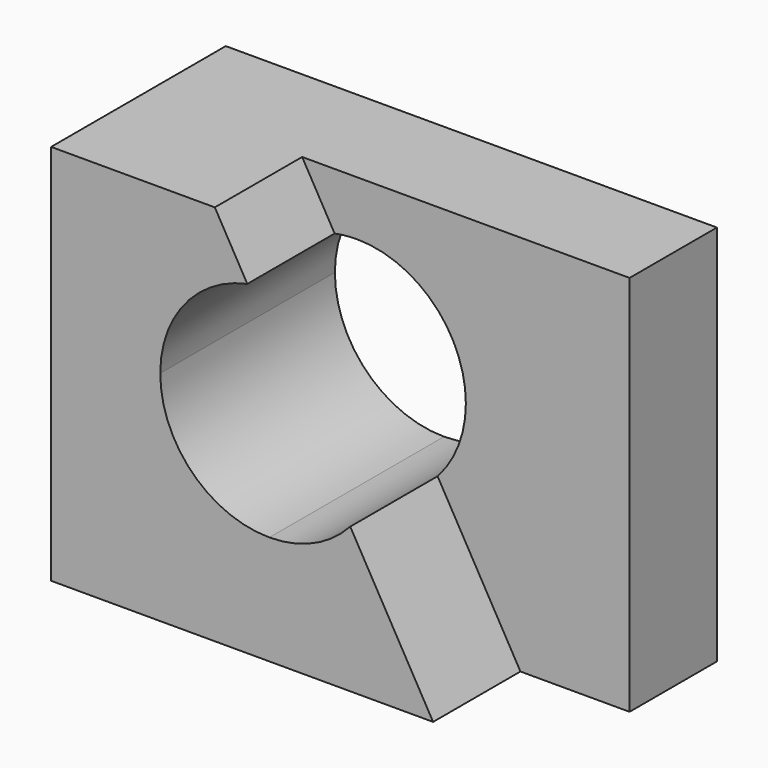
from build123d import *

# Parameters (mm, degrees)
F0_W     = 57.15
F0_H     = 44.45
F1_DEPTH = 25.4
F3_DEPTH = 25.401
F5_DEPTH = 12.7


with BuildPart() as f1:
    # F0 (on Front) → F1 (new body)
    with BuildSketch(Plane.XZ):
        with Locations((1.4072097838, 9.1718252664)):
            Rectangle(F0_W, F0_H)
    extrude(amount=F1_DEPTH)

    # F2 (on face) → F3 (cut, through all)
    with BuildSketch(Plane.XZ.offset(25.4)):
        with BuildLine():
            ThreePointArc((-1.7677901676, 25.0468252664), (-10.7480463069, 21.3270814178), (-14.4677902162, 12.3468253036))
            ThreePointArc((-14.4677902162, 12.3468253036), (-10.7480463548, 3.3665691629), (-1.7677902287, -0.3531747336))
            ThreePointArc((-1.7677902287, -0.3531747336), (7.2124659004, 3.3665691409), (10.9322097838, 12.3468252664))
            ThreePointArc((10.9322097838, 12.3468252664), (7.2124659221, 21.3270813703), (-1.7677901676, 25.0468252664))
        make_face()
    extrude(amount=-F3_DEPTH, mode=Mode.SUBTRACT)

    # F4 (on face) → F5 (cut)
    with BuildSketch(Plane.XZ.offset(25.4)):
        with BuildLine():
            Line((29.9822097838, 31.3968252664), (-8.1177902162, 31.3968252664))
            Line((-8.1177902162, 31.3968252664), (-4.3389383209, 24.7838344496))
            ThreePointArc((-4.3389383209, 24.7838344496), (6.25207322, 22.1942508419), (10.9322097838, 12.3468252664))
            ThreePointArc((10.9322097838, 12.3468252664), (10.0810924836, 7.7758320739), (7.641819427, 3.8175083909))
            Line((7.641819427, 3.8175083909), (17.2822097838, -13.0531747336))
            Line((17.2822097838, -13.0531747336), (29.9822097838, -13.0531747336))
            Line((29.9822097838, -13.0531747336), (29.9822097838, 31.3968252664))
        make_face()
    extrude(amount=-F5_DEPTH, mode=Mode.SUBTRACT)


solid = f1.part
